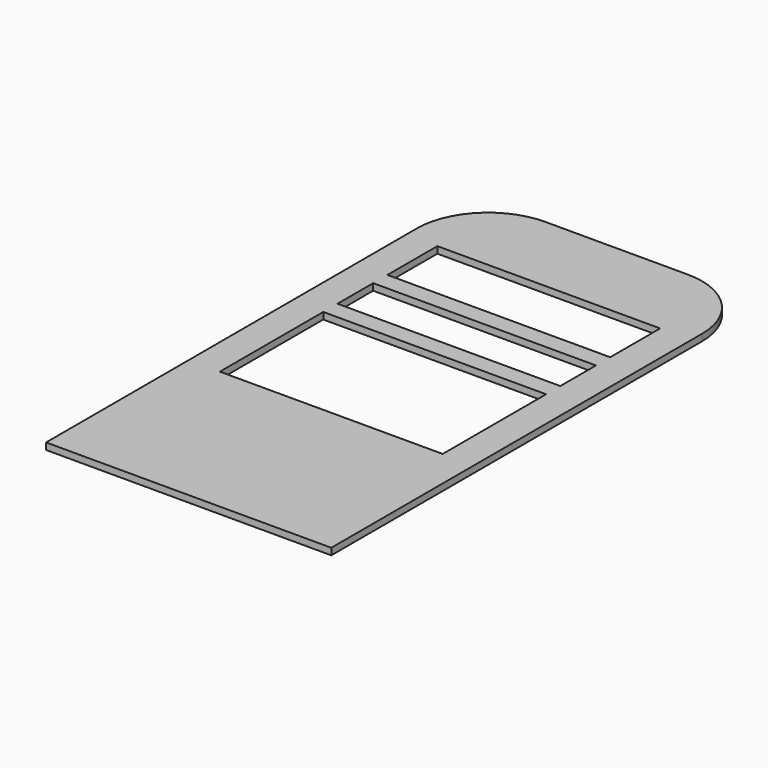
from build123d import *

# Parameters (mm, degrees)
F0_W     = 635
F0_H     = 126.999991
F0_H_2   = 177.800009
F1_DEPTH = 19.05


with BuildPart() as f1:
    # F0 (on Top) → F1 (new body)
    with BuildSketch(Plane.XY):
        with BuildLine():
            Line((-648.038619, 763.81958), (-648.038619, -556.98042))
            Line((-648.038619, -556.98042), (164.761381, -556.98042))
            Line((164.761381, -556.98042), (164.761381, 763.81958))
            ThreePointArc((164.761381, 763.81958), (105.245479, 907.503678), (-38.438619, 967.01958))
            Line((-38.438619, 967.01958), (-444.838619, 967.01958))
            ThreePointArc((-444.838619, 967.01958), (-588.522717, 907.503678), (-648.038619, 763.81958))
        make_face()
        Polygon((75.861381, -48.98042), (-559.138619, -48.98042), (-559.138619, 90.71958), (-559.138619, 141.51958), (-559.138619, 319.31958), (75.861381, 319.31958), (75.861381, 141.51958), (75.861381, 90.71958), align=None, mode=Mode.SUBTRACT)
        with Locations((-241.638619, 433.619575)):
            Rectangle(F0_W, F0_H, mode=Mode.SUBTRACT)
        with Locations((-241.638619, 636.819575)):
            Rectangle(F0_W, F0_H_2, mode=Mode.SUBTRACT)
    extrude(amount=F1_DEPTH)


solid = f1.part
